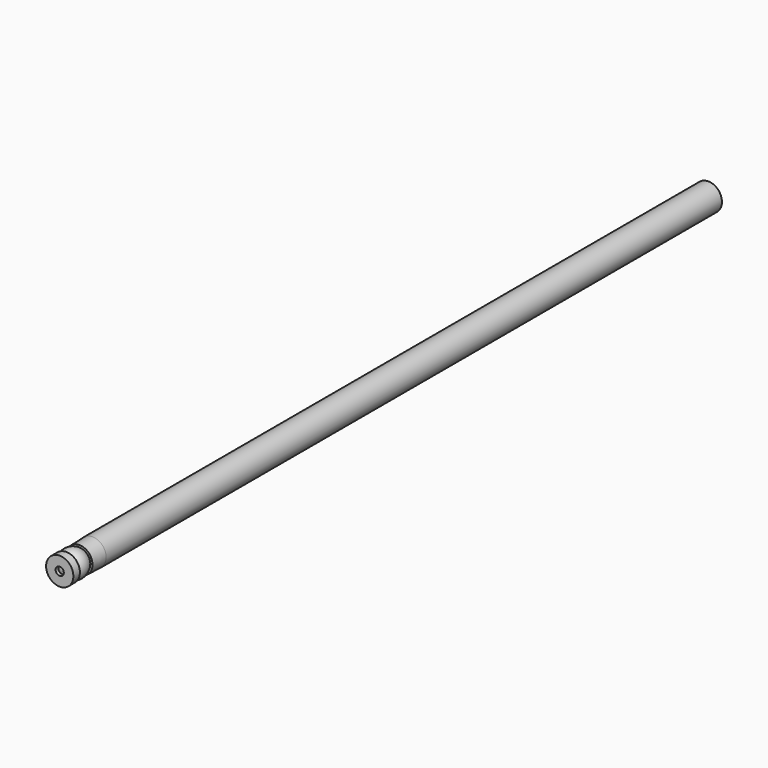
from build123d import *

# Parameters (mm, degrees)
F1_W     = 1
F1_H     = 282
F5_W     = 2.5
F5_H     = 4
F8_D     = 3.3
F8_DEPTH = 8.6
F8_TIP   = 0.9914200214


with BuildPart() as f2:
    # F1 (on Top) → F2 (revolve)
    with BuildSketch(Plane.XY):
        with Locations((-4.5, 143.5)):
            Rectangle(F1_W, F1_H)
    revolve(axis=Axis((0, -9, 0), (0, 1, 0)))


with BuildPart() as f3:
    # F0 (on Top) → F3 (revolve)
    with BuildSketch(Plane.XY):
        with BuildLine():
            Line((-1.5, -12.5), (-1.5, -11.2696960071))
            ThreePointArc((-1.5, -11.2696960071), (-2.8888502885, -10.5809979185), (-4, -9.5))
            Line((-4, -9.5), (-5, -9.5))
            Line((-5, -9.5), (-5, -12.5))
            Line((-5, -12.5), (-1.5, -12.5))
        make_face()
    revolve(axis=Axis((0, -9, 0), (0, 1, 0)))


with BuildPart() as f4:
    # F0 (on Top) → F4 (revolve)
    with BuildSketch(Plane.XY):
        with BuildLine():
            ThreePointArc((-1.5, -11.2696960071), (-0.7587884964, -11.4420886291), (0, -11.5))
            Line((0, -11.5), (0, -6.5))
            Line((0, -6.5), (0, -5.5))
            Line((0, -5.5), (-2, -5.5))
            Line((-2, -5.5), (-2, -2.1698729811))
            Line((-2, -2.1698729811), (-2.5, -2.1698729811))
            ThreePointArc((-2.5, -2.1698729811), (-4.8984885963, -5.4975981486), (-4, -9.5))
            ThreePointArc((-4, -9.5), (-2.8888502885, -10.5809979185), (-1.5, -11.2696960071))
        make_face()
    revolve(axis=Axis((0, -6, 0), (0, 1, 0)))


with BuildPart() as f6:
    # F5 (on Top) → F6 (revolve)
    with BuildSketch(Plane.XY):
        with BuildLine():
            Line((-4.8, -3.5), (-4, -3.5))
            ThreePointArc((-4, -3.5), (-3.1794494718, -2.6411010565), (-2.1794494718, -2))
            Line((-2.1794494718, -2), (0, -2))
            Line((0, -2), (0, -0.5))
            Line((0, -0.5), (-2.5, -0.5))
            Line((-2.5, -0.5), (-2.5, 3.5))
            Line((-2.5, 3.5), (-2.5, 12.5))
            Line((-2.5, 12.5), (-4, 12.5))
            Line((-4, 12.5), (-4, 2.5))
            Line((-4, 2.5), (-5, 2.5))
            Line((-5, 2.5), (-4.8, -3.5))
        make_face()
        with Locations((-1.25, 1.5)):
            Rectangle(F5_W, F5_H)
    revolve(axis=Axis((0, -1.25, 0), (0, -1, 0)))

    # F8
    with Locations(Plane.XZ.offset(2)):
        with Locations((0, 0)):
            Hole(F8_D / 2, depth=F8_DEPTH)
            with Locations((0, 0, -(F8_DEPTH + F8_TIP / 2))):  # 118° drill point
                Cone(0, F8_D / 2, F8_TIP, mode=Mode.SUBTRACT)


solid = Compound([f2.part, f3.part, f4.part, f6.part])
